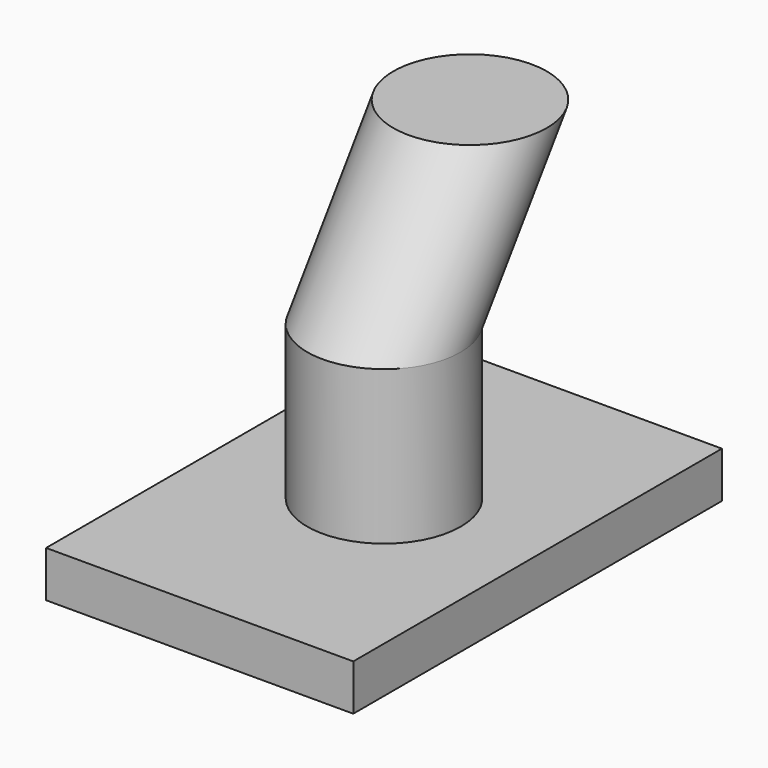
from build123d import *

# Parameters (mm, degrees)
F0_W     = 20
F0_H     = 30
F1_DEPTH = 3
F2_R     = 5
F3_DEPTH = 10
F6_R     = 5


with BuildPart() as f1:
    # F0 (on Top) → F1 (new body)
    with BuildSketch(Plane.XY):
        Rectangle(F0_W, F0_H)
    extrude(amount=F1_DEPTH)

    # F2 (on face) → F3 (join)
    with BuildSketch(Plane.XY.offset(3)):
        Circle(F2_R)
    extrude(amount=F3_DEPTH)

    # F9: sweep along a path in F8
    with BuildLine(Plane.YZ) as f9_path:
        Line((0, 13), (7, 23))
    # F6 (on face) → F9 (sweep)
    with BuildSketch(Plane.XY.offset(13)):
        Circle(F6_R)
    sweep(path=f9_path.line)


solid = f1.part
